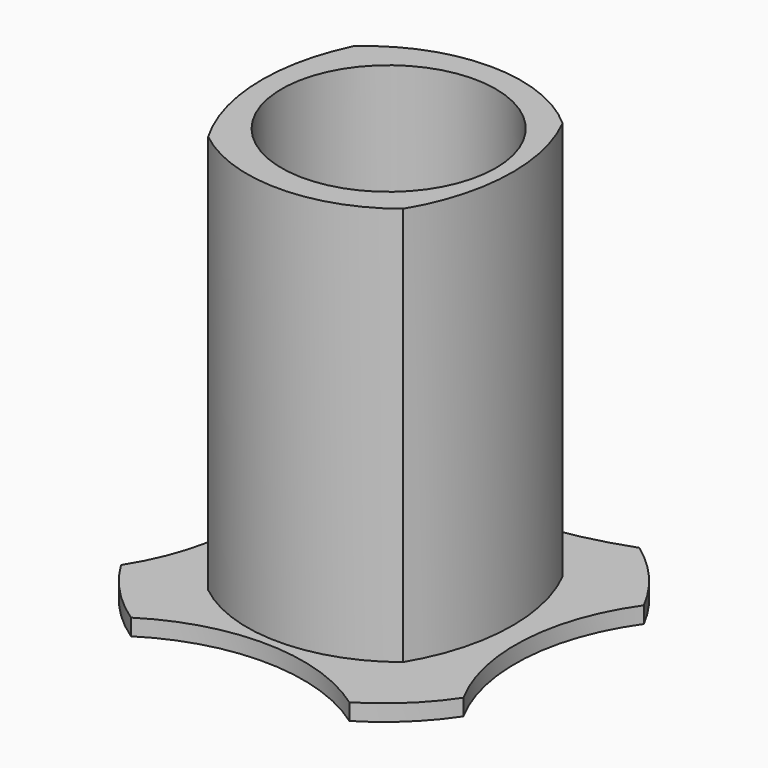
from build123d import *

# Parameters (mm, degrees)
F1_DEPTH = 101
F2_R     = 26.0281777089
F3_DEPTH = 96.7
F5_DEPTH = 4


with BuildPart() as f1:
    # F0 (on Top) → F1 (new body)
    with BuildSketch(Plane.XY):
        with BuildLine():
            ThreePointArc((23.6903417145, -23.8037893118), (30.5111124696, -0.8521403709), (25.3826190605, 22.5358834478))
            ThreePointArc((25.3826190605, 22.5358834478), (0, 32.2655875029), (-25.3826190605, 22.5358834478))
            ThreePointArc((-25.3826190605, 22.5358834478), (-30.337839801, -0.8458126307), (-23.6903417145, -23.8037893118))
            ThreePointArc((-23.6903417145, -23.8037893118), (0, -32.0909383549), (23.6903417145, -23.8037893118))
        make_face()
    extrude(amount=F1_DEPTH)

    # F2 (on face) → F3 (cut)
    with BuildSketch(Plane.XY.offset(101)):
        with Locations((0.9487959906, 0.2371987939)):
            Circle(F2_R)
    extrude(amount=-F3_DEPTH, mode=Mode.SUBTRACT)

    # F4 (on Top) → F5 (join)
    with BuildSketch(Plane.XY):
        with BuildLine():
            ThreePointArc((41.7664500982, -28.0889039008), (35.9824056468, -2.129560913), (44.7880711781, 22.9663135113))
            ThreePointArc((44.7880711781, 22.9663135113), (38.1340229318, 32.8514713703), (29.3426477198, 40.895377501))
            ThreePointArc((29.3426477198, 40.895377501), (-0.5888166123, 35.3352467721), (-30.6889163173, 39.8950284049))
            ThreePointArc((-30.6889163173, 39.8950284049), (-37.0460992048, 34.0735881566), (-42.3167543976, 27.252801203))
            ThreePointArc((-42.3167543976, 27.252801203), (-35.0812809888, 0.4822388969), (-43.0498754281, -26.0793232617))
            ThreePointArc((-43.0498754281, -26.0793232617), (-36.4116539714, -34.750745765), (-28.0593730131, -41.7862951489))
            ThreePointArc((-28.0593730131, -41.7862951489), (-0.8099307183, -34.1616163684), (26.0475538255, -43.0691051203))
            ThreePointArc((26.0475538255, -43.0691051203), (34.7244350449, -36.4367463829), (41.7664500982, -28.0889039008))
        make_face()
    extrude(amount=F5_DEPTH)


solid = f1.part
